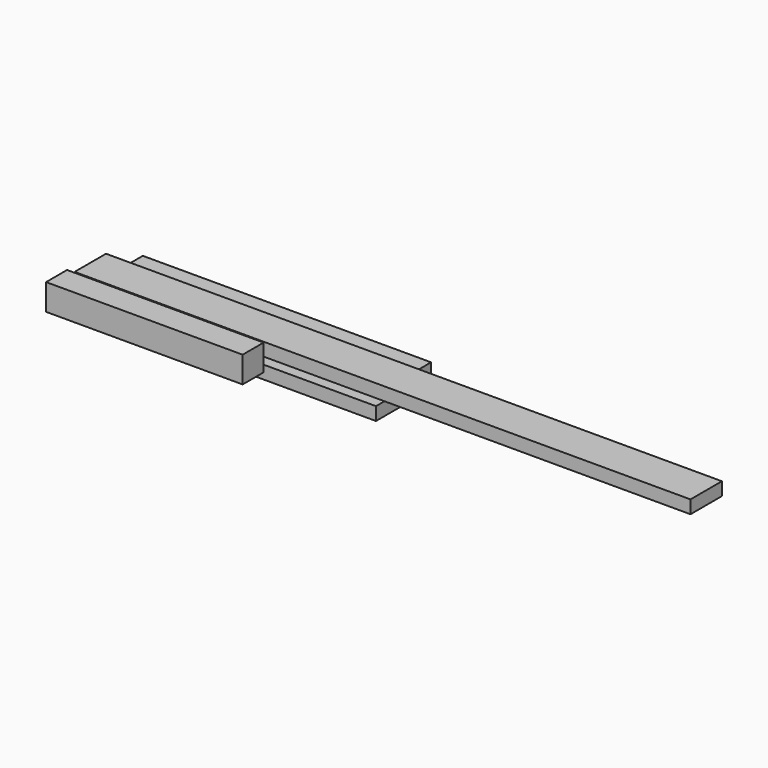
from build123d import *

# Parameters (mm, degrees)
F0_W     = 2387.6
F0_H     = 152.4
F1_DEPTH = 50.8
F2_W     = 101.6
F2_H     = 101.6
F3_DEPTH = 762
F4_W     = 152.4
F4_H     = 50.8
F5_DEPTH = 1168.4
F6_W     = 152.4
F6_H     = 50.8
F7_DEPTH = 1117.6


with BuildPart() as f1:
    # F0 (on Top) → F1 (new body)
    with BuildSketch(Plane.XY):
        with Locations((1193.8, 76.2)):
            Rectangle(F0_W, F0_H)
    extrude(amount=F1_DEPTH)


with BuildPart() as f3:
    # F2 (on Right) → F3 (new body)
    with BuildSketch(Plane.YZ):
        with Locations((-87.235643, 21.28173)):
            Rectangle(F2_W, F2_H)
    extrude(amount=F3_DEPTH)


with BuildPart() as f5:
    # F4 (on Right) → F5 (new body)
    with BuildSketch(Plane.YZ):
        with Locations((76.2, -52.889361)):
            Rectangle(F4_W, F4_H)
    extrude(amount=F5_DEPTH)


with BuildPart() as f7:
    # F6 (on Right) → F7 (new body)
    with BuildSketch(Plane.YZ):
        with Locations((254.520491, -54.217565)):
            Rectangle(F6_W, F6_H)
    extrude(amount=F7_DEPTH)


solid = Compound([f1.part, f3.part, f5.part, f7.part])
